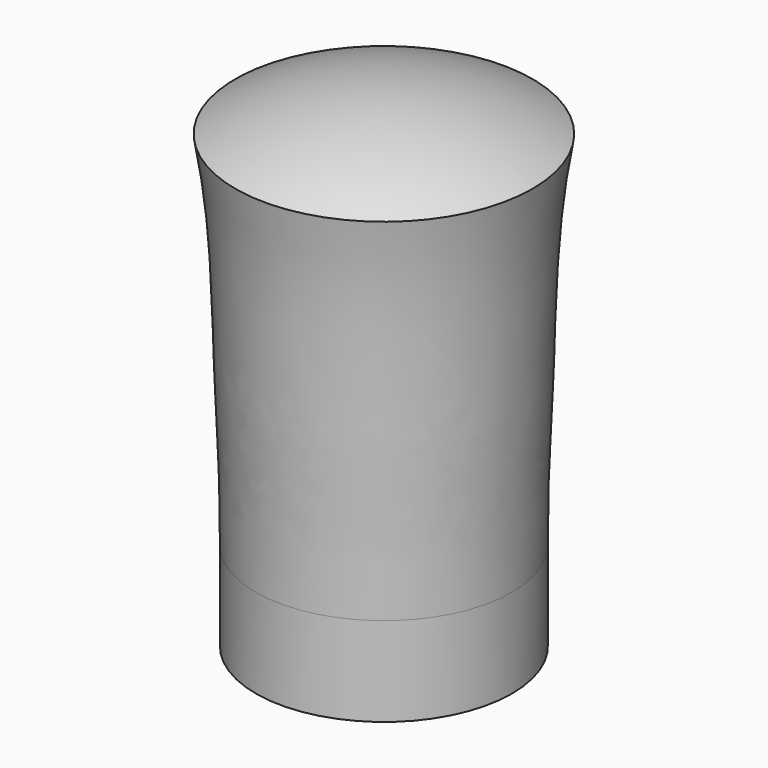
from build123d import *


with BuildPart() as f1:
    # F0 (on Front) → F1 (revolve)
    with BuildSketch(Plane.XZ):
        with BuildLine():
            Line((6.775, 7.5), (6.775, 0))
            Line((6.775, 0), (10.775, 0))
            Line((10.775, 0), (10.775, 7.5))
            add(Edge.make_bspline(
                [(10.775, 7.5), (10.7607568159, 12.6796716145), (11.2885719403, 20.6449525893), (11.405192979, 32.3101136547), (12.5, 37.9340262304)],
                knots=[0, 0, 0, 0, 0.4716343176, 1, 1, 1, 1], degree=3))
            ThreePointArc((12.5, 37.9340262304), (6.451795022, 40.3227890172), (0, 41.136))
            Line((0, 41.136), (0, 36.136))
            Line((0, 36.136), (2.084, 36.136))
            Line((2.084, 36.136), (2.084, 33.136))
            Line((2.084, 33.136), (3, 33.136))
            Line((3, 33.136), (4.01, 27.606))
            Line((4.01, 27.606), (4.01, 26.176))
            Line((4.01, 26.176), (5.285, 26.176))
            add(Edge.make_bspline(
                [(5.285, 26.176), (5.6616569155, 23.1410889995), (6.363038423, 16.7434815213), (6.7755435593, 11.2503249571), (6.775, 7.5)],
                knots=[0, 0, 0, 0, 0.4956782544, 1, 1, 1, 1], degree=3))
        make_face()
    revolve(axis=Axis((0, 0, 38.636), (0, 0, 1)))


solid = f1.part
